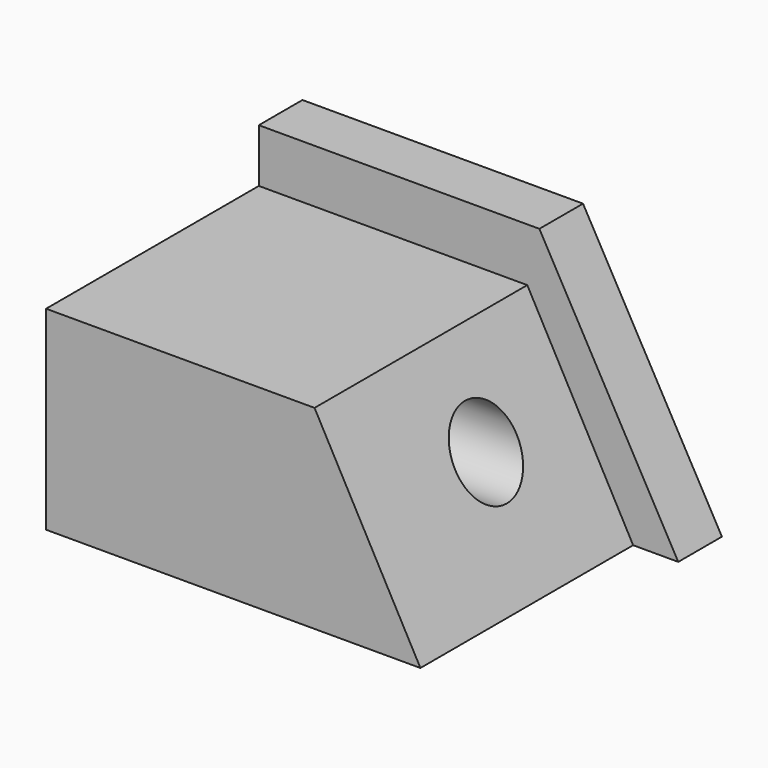
from build123d import *

# Parameters (mm, degrees)
F0_W     = 107.3800772429
F0_H     = 82.039296627
F1_DEPTH = 63.5
F3_DEPTH = 82.040296627
F5_DEPTH = 68.072
F6_R     = 9.8390398468
F7_DEPTH = 107.3810772429


with BuildPart() as f1:
    # F0 (on Top) → F1 (new body)
    with BuildSketch(Plane.XY):
        with Locations((-0.9704492986, 1.2810640037)):
            Rectangle(F0_W, F0_H)
    extrude(amount=F1_DEPTH)

    # F2 (on face) → F3 (cut, through all)
    with BuildSketch(Plane.XZ.offset(39.7385843098)):
        Polygon((17.1634294093, 63.5), (52.7195893228, 0), (52.7195893228, 63.5), align=None)
    extrude(amount=-F3_DEPTH, mode=Mode.SUBTRACT)

    # F4 (on face) → F5 (cut)
    with BuildSketch(Plane.XZ.offset(39.7385843098)):
        Polygon((17.1634294093, 63.5), (-54.66048792, 63.5), (-54.66048792, 49.8112104833), (14.0662752092, 49.8112104833), (41.1664322019, 0), (52.7195893228, 0), align=None)
    extrude(amount=-F5_DEPTH, mode=Mode.SUBTRACT)

    # F6 (on face) → F7 (cut, through all)
    with BuildSketch(Plane(origin=(-54.66048792, 0, 0), x_dir=(0, -1, 0), z_dir=(-1, 0, 0))):
        with Locations((0, 27.6148878038)):
            Circle(F6_R)
    extrude(amount=-F7_DEPTH, mode=Mode.SUBTRACT)


solid = f1.part
